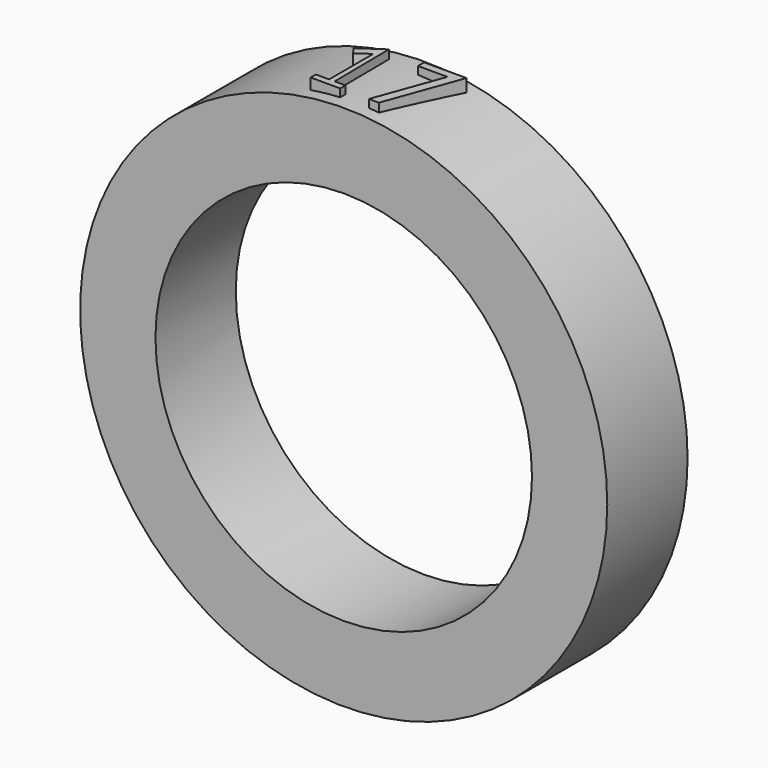
from build123d import *

# Parameters (mm, degrees)
F0_R     = 13.335
F0_R_2   = 9.525
F1_DEPTH = 5.08
F4_DEPTH = 3.556


with BuildPart() as f1:
    # F0 (on Front) → F1 (new body)
    with BuildSketch(Plane.XZ):
        Circle(F0_R)
        Circle(F0_R_2, mode=Mode.SUBTRACT)
    extrude(amount=F1_DEPTH)

    # F3 (on offset) → F4 (join)
    with BuildSketch(Plane.XY.offset(10.16)):
        Polygon((-1.232519, -4.1148), (-1.27, -0.635), (-2.417171, -1.423591), (-2.172425, -1.779626), (-1.510733, -1.324764), (-1.510733, -4.1148), (-2.177129, -4.1148), (-2.177129, -4.445), (-0.686343, -4.445), (-0.686343, -4.1148), align=None)
        Polygon((2.006021, -1.027081), (0.762, -4.445), (1.27, -4.445), (2.656727, -0.635), (0.513302, -0.635), (0.513302, -1.027081), align=None)
    extrude(amount=F4_DEPTH)


solid = f1.part
